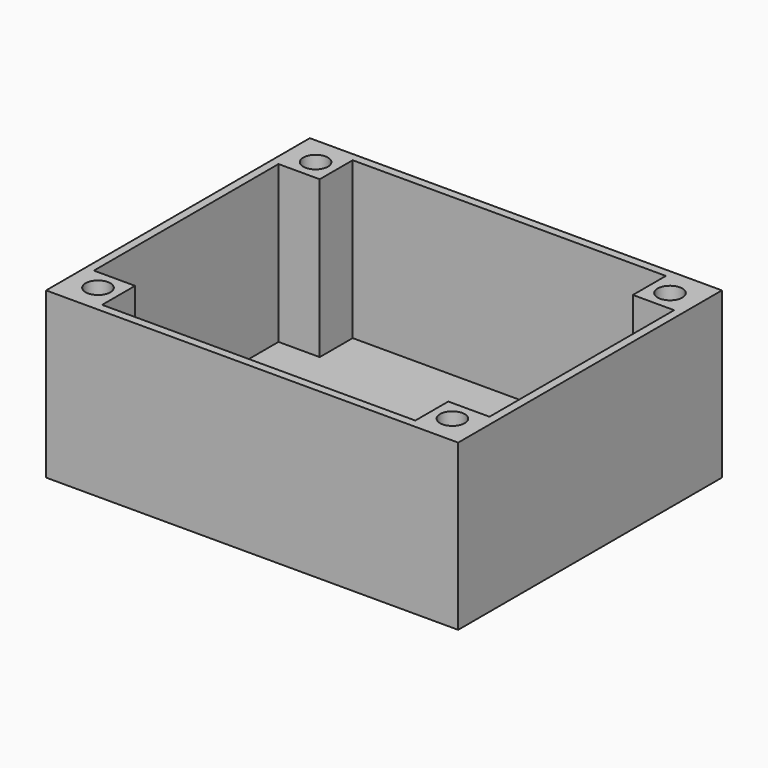
from build123d import *

# Parameters (mm, degrees)
F0_W      = 50
F0_H      = 40
F1_DEPTH  = 20
F2_W      = 48
F2_H      = 38
F3_DEPTH  = 19
F4_W      = 5
F4_H      = 5
F5_DEPTH  = 19
F6_R      = 1.5
F7_DEPTH  = 10
F8_R      = 2.5
F8_R_2    = 1.5
F9_DEPTH  = 5
F10_DEPTH = 2
F11_R     = 5
F11_R_2   = 2.5
F12_DEPTH = 2
F13_R     = 1.5
F14_DEPTH = 2


with BuildPart() as f1:
    # F0 (on Top) → F1 (new body)
    with BuildSketch(Plane.XY):
        with Locations((-30.7756610087, 24.588953238)):
            Rectangle(F0_W, F0_H)
    extrude(amount=F1_DEPTH)

    # F2 (on face) → F3 (cut)
    with BuildSketch(Plane.XY.offset(20)):
        with Locations((-30.7756610087, 24.588953238)):
            Rectangle(F2_W, F2_H)
    extrude(amount=-F3_DEPTH, mode=Mode.SUBTRACT)

    # F4 (on face) → F5 (join)
    with BuildSketch(Plane.XY.offset(1)):
        with Locations((-52.2756610087, 41.088953238)):
            Rectangle(F4_W, F4_H)
        with Locations((-9.2756610087, 41.088953238)):
            Rectangle(F4_W, F4_H)
        with Locations((-9.2756610087, 8.088953238)):
            Rectangle(F4_W, F4_H)
        with Locations((-52.2756610087, 8.088953238)):
            Rectangle(F4_W, F4_H)
    extrude(amount=F5_DEPTH)

    # F6 (on face) → F7 (cut)
    with BuildSketch(Plane.XY.offset(20)):
        with Locations((-52.2756610087, 8.088953238)):
            Circle(F6_R)
        with Locations((-52.2756610087, 41.088953238)):
            Circle(F6_R)
        with Locations((-9.2756610087, 41.088953238)):
            Circle(F6_R)
        with Locations((-9.2756610087, 8.088953238)):
            Circle(F6_R)
    extrude(amount=-F7_DEPTH, mode=Mode.SUBTRACT)

    # F8 (on face) → F9 (join)
    with BuildSketch(Plane.XY.offset(1)):
        with Locations((-33.7756610087, 20.588953238)):
            Circle(F8_R)
        with Locations((-33.7756610087, 20.588953238)):
            Circle(F8_R_2, mode=Mode.SUBTRACT)
        with Locations((-18.7756610087, 30.588953238)):
            Circle(F8_R)
        with Locations((-18.7756610087, 30.588953238)):
            Circle(F8_R_2, mode=Mode.SUBTRACT)
    extrude(amount=F9_DEPTH)

    # F10 (cut): faces of the model
    f10_faces = [f1.faces().sort_by_distance(p)[0] for p in [
        (-33.7756610087, 20.588953238, 1),
        (-18.7756610087, 30.588953238, 1),
    ]]
    extrude(f10_faces, amount=-F10_DEPTH, mode=Mode.SUBTRACT)

    # F11 (on face) → F12 (join)
    with BuildSketch(Plane.XY.offset(1)):
        with Locations((-18.7756610087, 30.588953238)):
            Circle(F11_R)
        with Locations((-18.7756610087, 30.588953238)):
            Circle(F11_R_2, mode=Mode.SUBTRACT)
        with Locations((-33.7756610087, 20.588953238)):
            Circle(F11_R)
        with Locations((-33.7756610087, 20.588953238)):
            Circle(F11_R_2, mode=Mode.SUBTRACT)
    extrude(amount=F12_DEPTH)

    # F13 (on face) → F14 (cut)
    with BuildSketch(Plane(origin=(0, 0, 0), x_dir=(1, 0, 0), z_dir=(0, 0, -1))):
        Polygon((-16.1775847973, -32.088953238), (-16.1775847973, -29.088953238), (-18.7756610087, -27.588953238), (-21.37373722, -29.088953238), (-21.37373722, -32.088953238), (-18.7756610087, -33.588953238), align=None)
        with Locations((-18.7756610087, -30.588953238)):
            Circle(F13_R, mode=Mode.SUBTRACT)
        Polygon((-31.2851968259, -22.0268234043), (-31.2851968259, -19.1510830716), (-33.7756610087, -17.7132129053), (-36.2661251915, -19.1510830716), (-36.2661251915, -22.0268234043), (-33.7756610087, -23.4646935706), align=None)
        with Locations((-33.7756610087, -20.588953238)):
            Circle(F13_R, mode=Mode.SUBTRACT)
    extrude(amount=-F14_DEPTH, mode=Mode.SUBTRACT)


solid = f1.part
